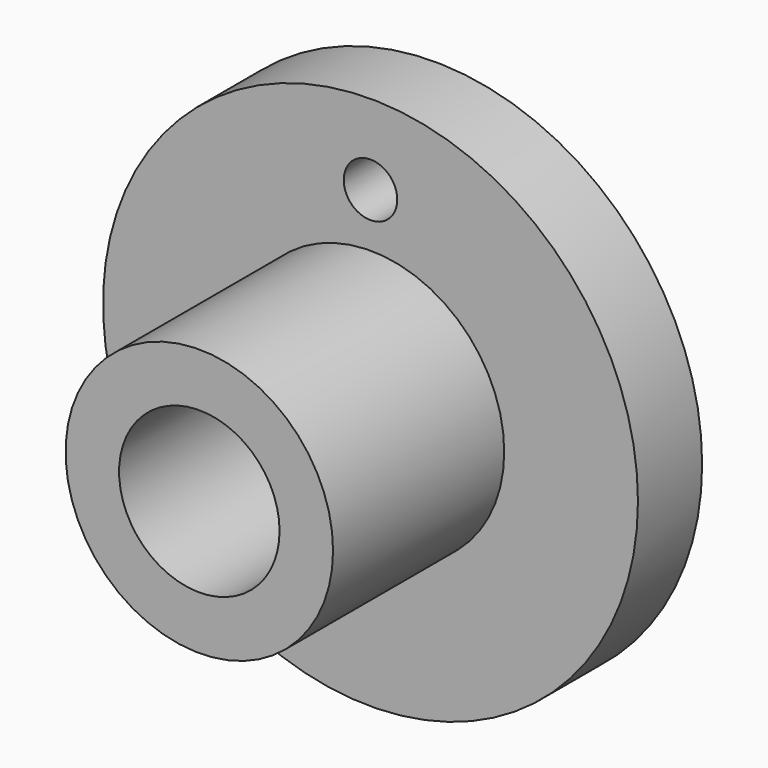
from build123d import *

# Parameters (mm, degrees)
F0_R     = 63.5
F1_DEPTH = 19.05
F3_R     = 31.75
F4_DEPTH = 50.8
F5_R     = 19.05
F6_DEPTH = 69.851
F7_R     = 6.35
F8_DEPTH = 19.051


with BuildPart() as f1:
    # F0 (on Front) → F1 (new body)
    with BuildSketch(Plane.XZ):
        Circle(F0_R)
    extrude(amount=F1_DEPTH)

    # F3 (on offset) → F4 (join, through all)
    with BuildSketch(Plane.XZ.offset(69.85)):
        Circle(F3_R)
    extrude(amount=-F4_DEPTH)

    # F5 (on face) → F6 (cut, through all)
    with BuildSketch(Plane.XZ.offset(69.85)):
        Circle(F5_R)
    extrude(amount=-F6_DEPTH, mode=Mode.SUBTRACT)

    # F7 (on face) → F8 (cut, through all)
    with BuildSketch(Plane.XZ.offset(19.05)):
        with Locations((0, 44.45)):
            Circle(F7_R)
    extrude(amount=-F8_DEPTH, mode=Mode.SUBTRACT)


solid = f1.part
